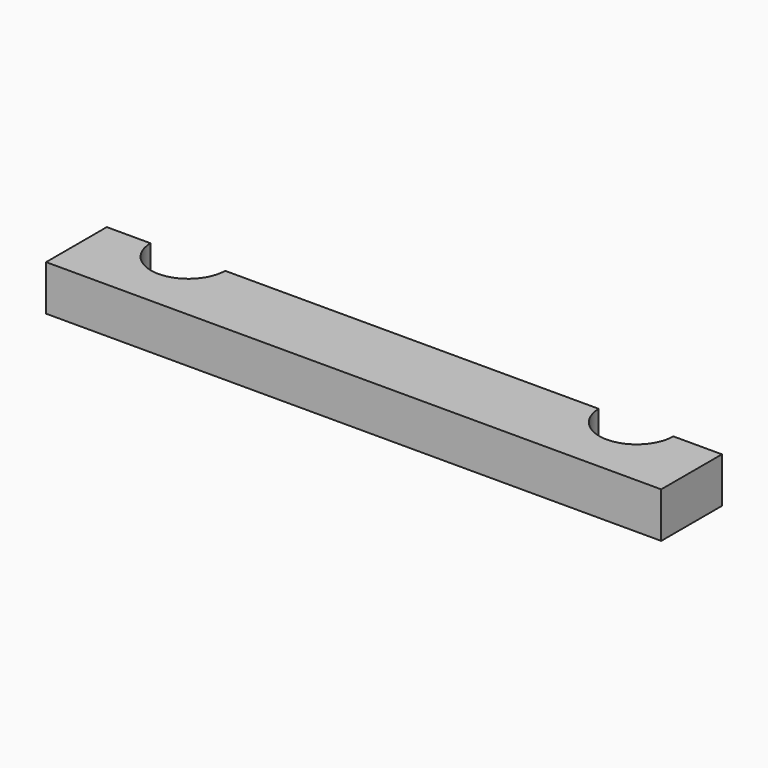
from build123d import *

# Parameters (mm, degrees)
SKETCH_R        = 2
PAD_DEPTH       = 4
SKETCH001_W     = 50
SKETCH001_H     = 3
PAD001_DEPTH    = 4
SKETCH002_R     = 2
PAD002_DEPTH    = 11
SKETCH003_W     = 57.312547
SKETCH003_H     = 35.48627
SKETCH003_W_2   = 32.934865
SKETCH003_H_2   = 4.062765
POCKET_DEPTH    = 11.001
SKETCH004_W     = 47.141797
SKETCH004_H     = 11.210097
POCKET001_DEPTH = 18.965808


with BuildPart() as part:
    # Sketch → Pad (new body)
    with BuildSketch(Plane.XY):
        with BuildLine():
            Line((10, 0), (40, 0))
            ThreePointArc((40, 0), (47.071068, 2.928932), (50, 10))
            Line((50, 10), (50, 22))
            Line((50, 22), (0, 22))
            Line((0, 22), (0, 10))
            ThreePointArc((0, 10), (2.928932, 2.928932), (10, 0))
        make_face()
        with Locations((7, 19)):
            Circle(SKETCH_R, mode=Mode.SUBTRACT)
        with Locations((31, 19)):
            Circle(SKETCH_R, mode=Mode.SUBTRACT)
    extrude(amount=PAD_DEPTH)

    # Sketch001 → Pad001 (join)
    with BuildSketch(Plane.XY):
        with Locations((25, 23.5)):
            Rectangle(SKETCH001_W, SKETCH001_H)
    extrude(amount=PAD001_DEPTH)

    # Sketch002 → Pad002 (join)
    with BuildSketch(Plane.XY):
        with BuildLine():
            Line((50, 11), (50, 22))
            Line((50, 22), (35, 22))
            ThreePointArc((35, 22), (31, 24), (27, 22))
            Line((27, 22), (11, 22))
            ThreePointArc((11, 22), (7, 24), (3, 22))
            Line((3, 22), (0, 22))
            Line((0, 22), (0, 11))
            Line((0, 11), (50, 11))
        make_face()
        with Locations((7, 19)):
            Circle(SKETCH002_R, mode=Mode.SUBTRACT)
        with Locations((31, 19)):
            Circle(SKETCH002_R, mode=Mode.SUBTRACT)
    extrude(amount=PAD002_DEPTH)

    # Sketch003 → Pocket (cut, through all)
    with BuildSketch(Plane.XY):
        with Locations((25.477233, 12.877207)):
            Rectangle(SKETCH003_W, SKETCH003_H)
        with Locations((19.127612, 16.933425)):
            Rectangle(SKETCH003_W_2, SKETCH003_H_2, mode=Mode.SUBTRACT)
    extrude(amount=POCKET_DEPTH, mode=Mode.SUBTRACT)

    # Sketch004 → Pocket001 (cut, through all)
    with BuildSketch(Plane.XZ):
        with Locations((17.359044, 8.036307)):
            Rectangle(SKETCH004_W, SKETCH004_H)
    extrude(amount=-POCKET001_DEPTH, mode=Mode.SUBTRACT)


solid = part.part
